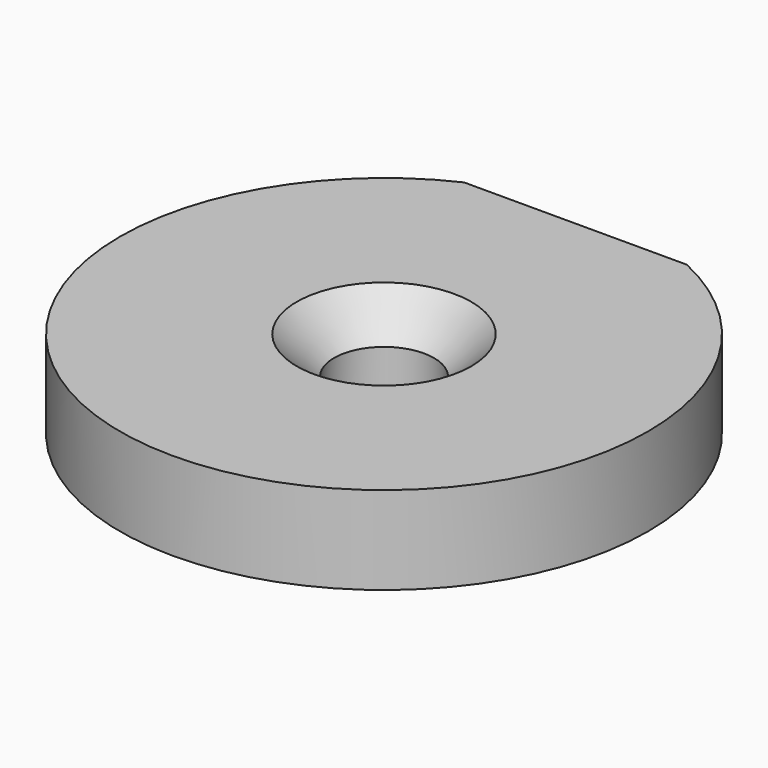
from build123d import *

# Parameters (mm, degrees)
F0_R     = 3.1496
F0_R_2   = 1.8034
F1_DEPTH = 3.175
F2_SIZE2 = 1.3462
F2_SIZE  = 1.3462


with BuildPart() as f1:
    # F0 (on Top) → F1 (new body)
    with BuildSketch(Plane.XY):
        with BuildLine():
            Line((4.0181, 8.636), (-4.0181, 8.636))
            ThreePointArc((-4.0181, 8.636), (0, -9.525), (4.0181, 8.636))
        make_face()
        Circle(F0_R, mode=Mode.SUBTRACT)
        with BuildLine():
            Line((4.0181, 8.636), (-4.0181, 8.636))
            ThreePointArc((-4.0181, 8.636), (0, -9.525), (4.0181, 8.636))
        make_face()
        Circle(F0_R, mode=Mode.SUBTRACT)
        Circle(F0_R)
        Circle(F0_R_2, mode=Mode.SUBTRACT)
    extrude(amount=F1_DEPTH)

    # F2
    f2_edges = [f1.edges().sort_by_distance(p)[0] for p in [
        (-1.8034, 0, 3.175),
    ]]
    chamfer(f2_edges, length=F2_SIZE, length2=F2_SIZE2)


solid = f1.part
